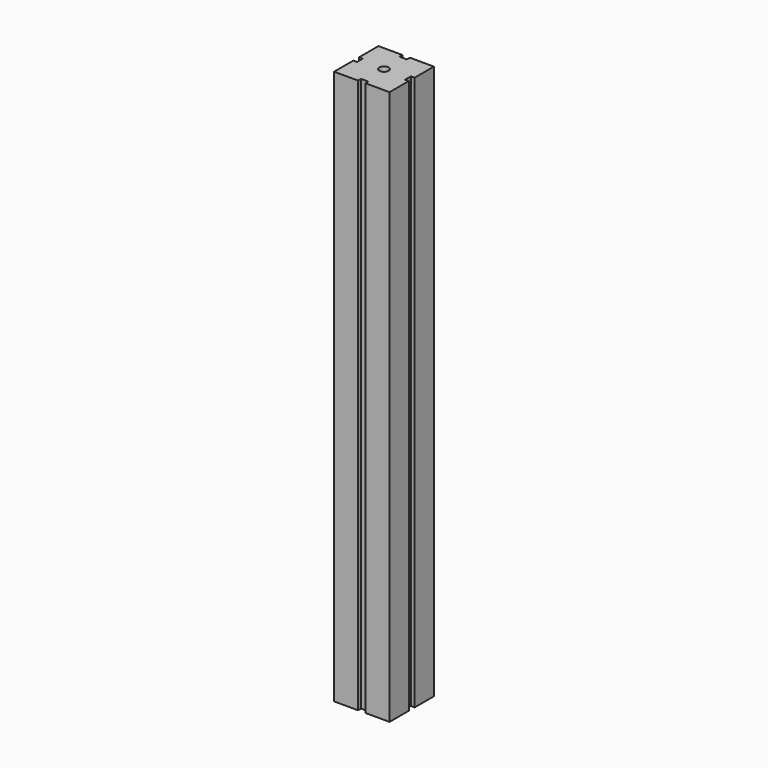
from build123d import *

# Parameters (mm, degrees)
F0_R     = 2.5
F1_DEPTH = 300


with BuildPart() as f1:
    # F0 (on Top) → F1 (new body)
    with BuildSketch(Plane.XY):
        Polygon((-52.643933, -68.08899), (-52.643933, -81.08899), (-39.643933, -81.08899), (-39.643933, -79.08899), (-35.643933, -79.08899), (-35.643933, -81.08899), (-22.643933, -81.08899), (-22.643933, -68.08899), (-24.643933, -68.08899), (-24.643933, -64.08899), (-22.643933, -64.08899), (-22.643933, -51.08899), (-35.643933, -51.08899), (-35.643933, -53.08899), (-39.643933, -53.08899), (-39.643933, -51.08899), (-52.643933, -51.08899), (-52.643933, -64.08899), (-50.643933, -64.08899), (-50.643933, -68.08899), align=None)
        with Locations((-37.643933, -66.08899)):
            Circle(F0_R, mode=Mode.SUBTRACT)
    extrude(amount=F1_DEPTH)


solid = f1.part
